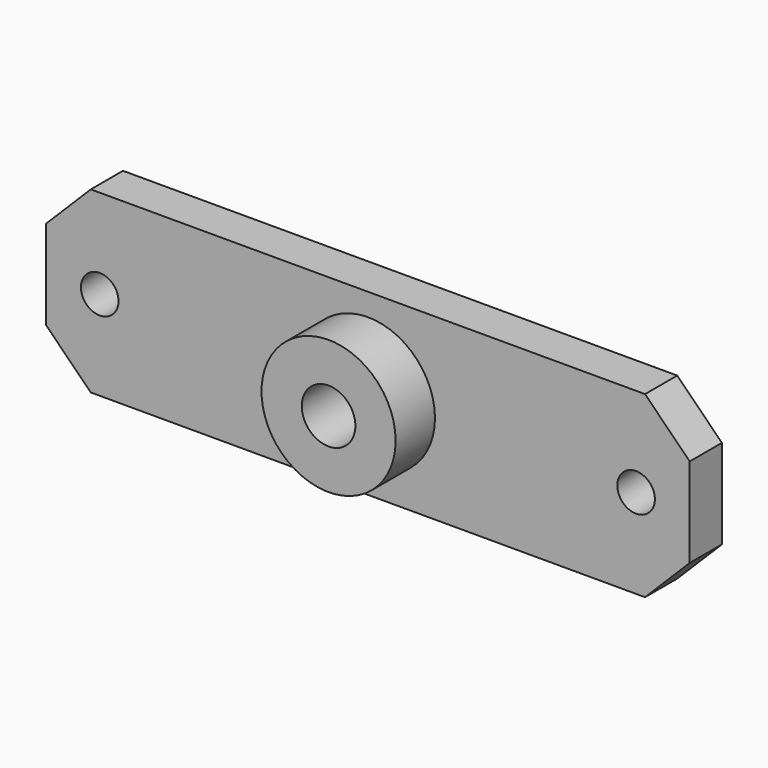
from build123d import *

# Parameters (mm, degrees)
F0_W     = 72
F0_H     = 20
F0_R     = 3
F1_DEPTH = 4.5
F2_R     = 7.5
F2_R_2   = 3
F3_DEPTH = 5.5
F4_SIZE  = 5
F6_D     = 4.2


with BuildPart() as f1:
    # F0 (on Front) → F1 (new body)
    with BuildSketch(Plane.XZ):
        Rectangle(F0_W, F0_H)
        Circle(F0_R, mode=Mode.SUBTRACT)
    extrude(amount=F1_DEPTH)

    # F2 (on face) → F3 (join)
    with BuildSketch(Plane.XZ.offset(4.5)):
        Circle(F2_R)
        Circle(F2_R_2, mode=Mode.SUBTRACT)
    extrude(amount=F3_DEPTH)

    # F4
    f4_edges = [f1.edges().sort_by_distance(p)[0] for p in [
        (36, -2.25, 10),
        (36, -2.25, -10),
        (-36, -2.25, 10),
        (-36, -2.25, -10),
    ]]
    chamfer(f4_edges, length=F4_SIZE)

    # F6 (through all)
    with Locations(Plane(origin=(0, 0, 0), x_dir=(-1, 0, 0), z_dir=(0, 1, 0))):
        with Locations((-30, 0), (30, 0)):
            Hole(F6_D / 2)


solid = f1.part
